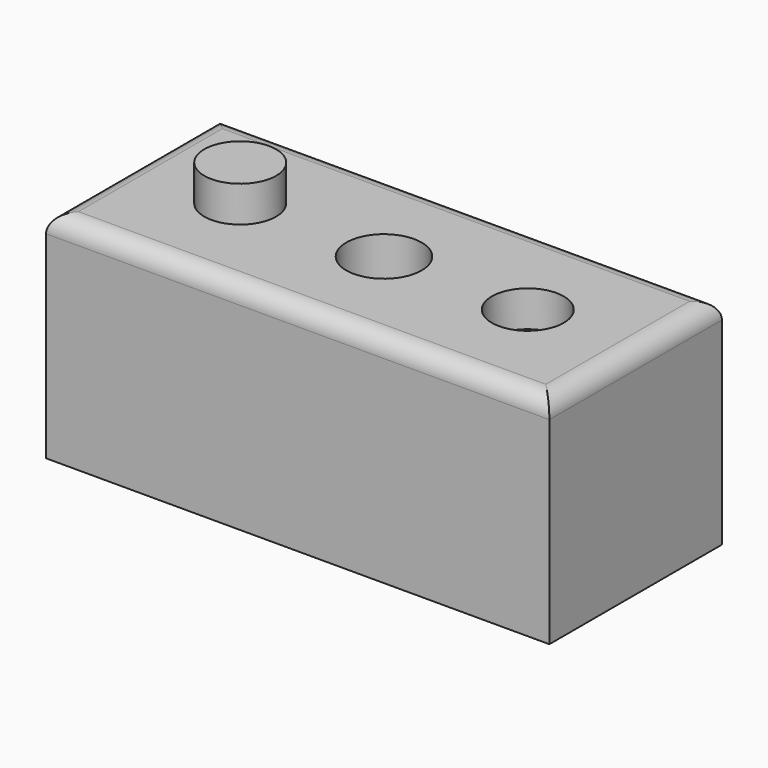
from build123d import *

# Parameters (mm, degrees)
F0_W     = 140
F0_H     = 60
F1_DEPTH = 60
F2_R     = 10
F5_DEPTH = 10
F4_R     = 10.496877
F6_DEPTH = 69.2
F3_R     = 10
F7_DEPTH = 10
F8_R     = 5


with BuildPart() as f1:
    # F0 (on Top) → F1 (new body)
    with BuildSketch(Plane.XY):
        Rectangle(F0_W, F0_H)
    extrude(amount=F1_DEPTH)

    # F2 (on face) → F5 (join)
    with BuildSketch(Plane.XY.offset(60)):
        with Locations((-40, 0)):
            Circle(F2_R)
    extrude(amount=F5_DEPTH)

    # F4 (on face) → F6 (cut)
    with BuildSketch(Plane.XY.offset(60)):
        Circle(F4_R)
    extrude(amount=-F6_DEPTH, mode=Mode.SUBTRACT)

    # F3 (on face) → F7 (cut)
    with BuildSketch(Plane.XY.offset(60)):
        with Locations((40, 0)):
            Circle(F3_R)
    extrude(amount=-F7_DEPTH, mode=Mode.SUBTRACT)

    # F8
    f8_edges = [f1.edges().sort_by_distance(p)[0] for p in [
        (-70, 0, 60),
        (0, -30, 60),
        (70, 0, 60),
        (0, 30, 60),
    ]]
    fillet(f8_edges, radius=F8_R)


solid = f1.part
